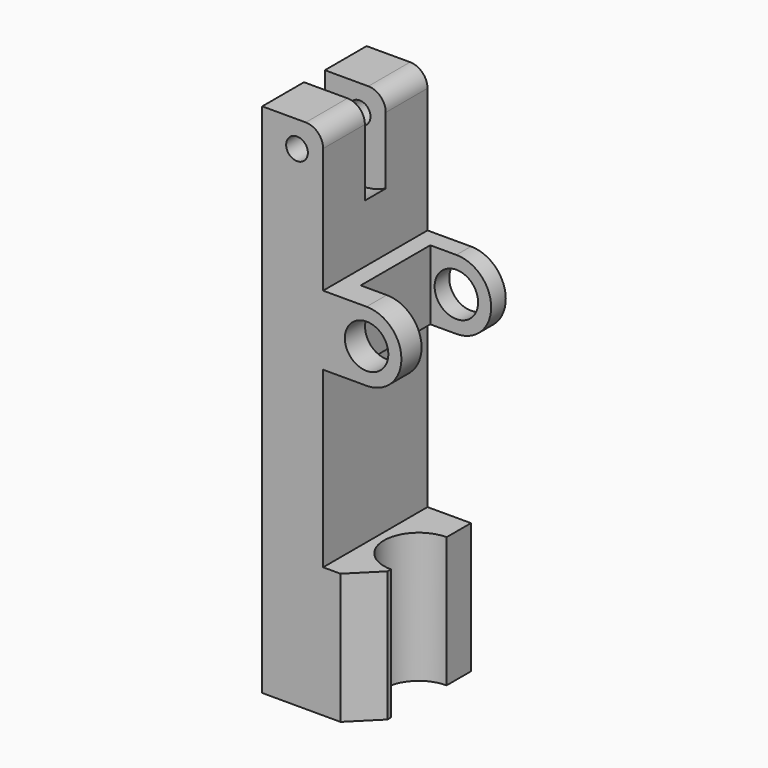
from build123d import *

# Parameters (mm, degrees)
SKETCH009_R       = 2.5
SKETCH009_R_2     = 1.25
PAD007_DEPTH      = 15
CYLINDER002_R     = 4
CYLINDER002_DEPTH = 27
CHAMFER001_SIZE2  = 3
CHAMFER001_SIZE   = 3
BOX_W             = 10
BOX_H             = 10.2
BOX_DEPTH         = 10
CYLINDER003_R     = 7
CYLINDER003_DEPTH = 3


with BuildPart() as part:
    # Sketch009 → Pad007 (new body)
    with BuildSketch(Plane.XZ):
        with BuildLine():
            Line((-12, 59.38), (-12, 0))
            Line((-12, 0), (0, 0))
            Line((0, 0), (0, 15))
            Line((0, 15), (-5, 15))
            Line((-5, 15), (-5, 35))
            Line((-5, 35), (0, 35))
            ThreePointArc((0, 35), (4, 39), (0, 43))
            Line((-5, 43), (0, 43))
            Line((-5, 43), (-5, 57.38))
            ThreePointArc((-5, 57.38), (-5.585786, 58.794214), (-7, 59.38))
            Line((-7, 59.38), (-12, 59.38))
        make_face()
        with Locations((0, 39)):
            Circle(SKETCH009_R, mode=Mode.SUBTRACT)
        with Locations((-8, 56.38)):
            Circle(SKETCH009_R_2, mode=Mode.SUBTRACT)
    extrude(amount=PAD007_DEPTH)

    # Cylinder002 → Cylinder002 (cut)
    with BuildSketch(Plane(origin=(0, -7.5, 0), x_dir=(1, 0, 0), z_dir=(0, 0, 1))):
        Circle(CYLINDER002_R)
    extrude(amount=CYLINDER002_DEPTH, mode=Mode.SUBTRACT)

    # Chamfer001
    chamfer001_edges = [part.edges().sort_by_distance(p)[0] for p in [
        (0, -15, 7.5),
    ]]
    chamfer001_side = part.faces().sort_by_distance((-7.04009, -15, 27.056502))[0]
    chamfer(chamfer001_edges, length=CHAMFER001_SIZE, length2=CHAMFER001_SIZE2, reference=chamfer001_side)

    # Box → Box (cut)
    with BuildSketch(Plane(origin=(-3, -12.1, 34), x_dir=(0, 1, 0), z_dir=(1, 0, 0))):
        with Locations((5, 5.1)):
            Rectangle(BOX_W, BOX_H)
    extrude(amount=BOX_DEPTH, mode=Mode.SUBTRACT)

    # Cylinder003 → Cylinder003 (cut)
    with BuildSketch(Plane(origin=(-8, -6, 56), x_dir=(1, 0, 0), z_dir=(0, -1, 0))):
        Circle(CYLINDER003_R)
    extrude(amount=CYLINDER003_DEPTH, mode=Mode.SUBTRACT)


solid = part.part
